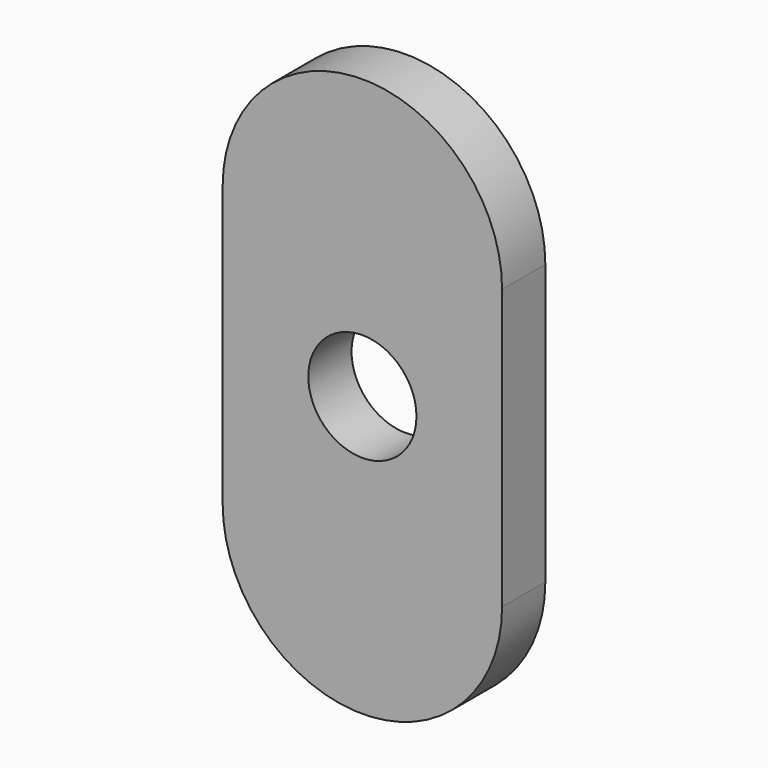
from build123d import *

# Parameters (mm, degrees)
F0_R     = 3
F1_DEPTH = 3


with BuildPart() as f1:
    # F0 (on Front) → F1 (new body)
    with BuildSketch(Plane.XZ):
        with BuildLine():
            ThreePointArc((7.75, 7.75), (0, 15.5), (-7.75, 7.75))
            Line((-7.75, 7.75), (-7.75, -7.75))
            ThreePointArc((-7.75, -7.75), (0, -15.5), (7.75, -7.75))
            Line((7.75, -7.75), (7.75, 7.75))
        make_face()
        Circle(F0_R, mode=Mode.SUBTRACT)
    extrude(amount=F1_DEPTH)


solid = f1.part
